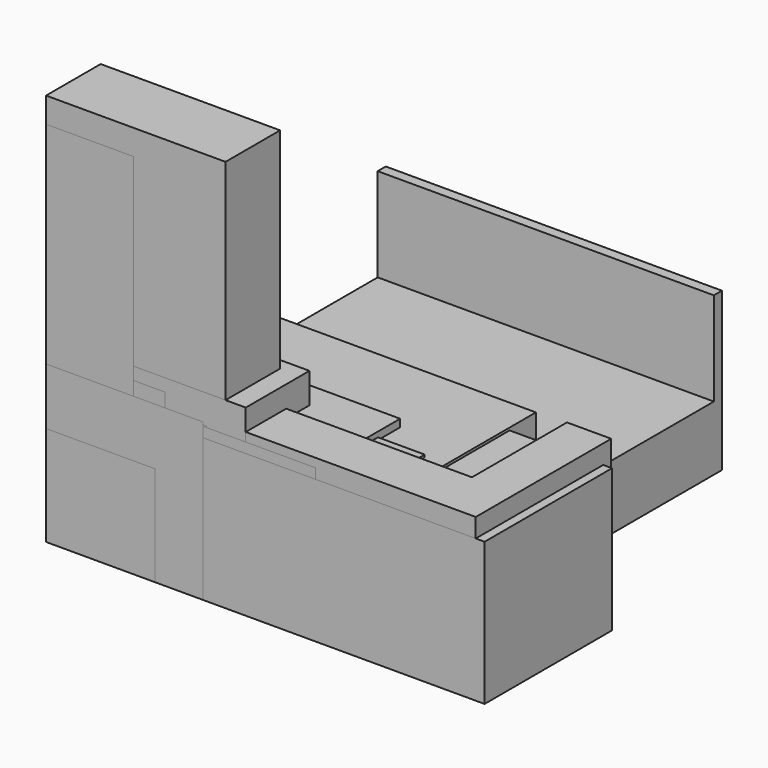
from build123d import *

# Parameters (mm, degrees)
F0_W      = 774.7
F0_H      = 495.3
F1_DEPTH  = 1073.15
F2_W      = 901.7
F2_H      = 342.9
F3_DEPTH  = 1974.85
F4_W      = 1689.1
F4_H      = 965.2
F5_DEPTH  = 730.25
F6_W      = 1587.5
F6_H      = 393.7
F7_DEPTH  = 742.95
F8_W      = 2159
F8_H      = 850.9
F9_DEPTH  = 812.8
F10_W     = 1714.5
F10_H     = 596.9
F11_DEPTH = 482.6
F12_W     = 1435.1
F12_H     = 421.64
F13_DEPTH = 495.3
F14_W     = 1003.3
F14_H     = 400.05
F15_DEPTH = 920.75
F16_W     = 596.9
F16_H     = 501.65
F17_DEPTH = 857.25
F18_W     = 438.15
F18_H     = 393.7
F19_DEPTH = 1847.85
F20_W     = 1689.1
F20_H     = 2133.6
F21_DEPTH = 323.85
F22_W     = 1689.1
F22_H     = 50.8
F23_DEPTH = 469.9
F24_W     = 806.45
F24_H     = 482.6
F25_DEPTH = 774.7
F26_W     = 400.05
F26_H     = 482.6
F27_DEPTH = 546.1
F28_W     = 463.55
F28_H     = 349.25
F29_DEPTH = 704.85
F30_W     = 1352.55
F30_H     = 533.4
F31_DEPTH = 768.35
F32_W     = 2203.45
F32_H     = 800.1
F33_DEPTH = 717.55
F34_W     = 787.4
F34_H     = 387.35
F35_DEPTH = 787.4
F36_W     = 546.1
F36_H     = 546.1
F37_DEPTH = 501.65


with BuildPart() as f1:
    # F0 (on Top) → F1 (new body)
    with BuildSketch(Plane.XY):
        with Locations((387.35, 247.65)):
            Rectangle(F0_W, F0_H)
    extrude(amount=F1_DEPTH)


with BuildPart() as f3:
    # F2 (on Top) → F3 (new body)
    with BuildSketch(Plane.XY):
        with Locations((450.85, 171.45)):
            Rectangle(F2_W, F2_H)
    extrude(amount=F3_DEPTH)


with BuildPart() as f5:
    # F4 (on Top) → F5 (new body)
    with BuildSketch(Plane.XY):
        with Locations((844.55, 482.6)):
            Rectangle(F4_W, F4_H)
    extrude(amount=F5_DEPTH)


with BuildPart() as f7:
    # F6 (on Top) → F7 (new body)
    with BuildSketch(Plane.XY):
        with Locations((793.75, 196.85)):
            Rectangle(F6_W, F6_H)
    extrude(amount=F7_DEPTH)


with BuildPart() as f9:
    # F8 (on Top) → F9 (new body)
    with BuildSketch(Plane.XY):
        with Locations((1079.5, 425.45)):
            Rectangle(F8_W, F8_H)
    extrude(amount=F9_DEPTH)

    # F10 (on face) → F11 (cut)
    with BuildSketch(Plane.XY.offset(812.8)):
        with Locations((1079.5, 552.45)):
            Rectangle(F10_W, F10_H)
    extrude(amount=-F11_DEPTH, mode=Mode.SUBTRACT)


with BuildPart() as f13:
    # F12 (on Top) → F13 (new body)
    with BuildSketch(Plane.XY):
        with Locations((717.55, 210.82)):
            Rectangle(F12_W, F12_H)
    extrude(amount=F13_DEPTH)


with BuildPart() as f15:
    # F14 (on Top) → F15 (new body)
    with BuildSketch(Plane.XY):
        with Locations((501.65, 200.025)):
            Rectangle(F14_W, F14_H)
    extrude(amount=F15_DEPTH)


with BuildPart() as f17:
    # F16 (on Top) → F17 (new body)
    with BuildSketch(Plane.XY):
        with Locations((298.45, 250.825)):
            Rectangle(F16_W, F16_H)
    extrude(amount=F17_DEPTH)


with BuildPart() as f19:
    # F18 (on Top) → F19 (new body)
    with BuildSketch(Plane.XY):
        with Locations((219.075, 196.85)):
            Rectangle(F18_W, F18_H)
    extrude(amount=F19_DEPTH)


with BuildPart() as f21:
    # F20 (on Top) → F21 (new body)
    with BuildSketch(Plane.XY):
        with Locations((844.55, 1066.8)):
            Rectangle(F20_W, F20_H)
    extrude(amount=F21_DEPTH)

    # F22 (on face) → F23 (join)
    with BuildSketch(Plane.XY.offset(323.85)):
        with Locations((844.55, 2108.2)):
            Rectangle(F22_W, F22_H)
    extrude(amount=F23_DEPTH)


with BuildPart() as f25:
    # F24 (on Top) → F25 (new body)
    with BuildSketch(Plane.XY):
        with Locations((403.225, 241.3)):
            Rectangle(F24_W, F24_H)
    extrude(amount=F25_DEPTH)


with BuildPart() as f27:
    # F26 (on Top) → F27 (new body)
    with BuildSketch(Plane.XY):
        with Locations((200.025, 241.3)):
            Rectangle(F26_W, F26_H)
    extrude(amount=F27_DEPTH)


with BuildPart() as f29:
    # F28 (on Top) → F29 (new body)
    with BuildSketch(Plane.XY):
        with Locations((231.775, 174.625)):
            Rectangle(F28_W, F28_H)
    extrude(amount=F29_DEPTH)


with BuildPart() as f31:
    # F30 (on Top) → F31 (new body)
    with BuildSketch(Plane.XY):
        with Locations((676.275, 266.7)):
            Rectangle(F30_W, F30_H)
    extrude(amount=F31_DEPTH)


with BuildPart() as f33:
    # F32 (on Top) → F33 (new body)
    with BuildSketch(Plane.XY):
        with Locations((1101.725, 400.05)):
            Rectangle(F32_W, F32_H)
    extrude(amount=F33_DEPTH)


with BuildPart() as f35:
    # F34 (on Top) → F35 (new body)
    with BuildSketch(Plane.XY):
        with Locations((393.7, 193.675)):
            Rectangle(F34_W, F34_H)
    extrude(amount=F35_DEPTH)


with BuildPart() as f37:
    # F36 (on Top) → F37 (new body)
    with BuildSketch(Plane.XY):
        with Locations((273.05, 273.05)):
            Rectangle(F36_W, F36_H)
    extrude(amount=F37_DEPTH)


solid = Compound([f1.part, f3.part, f5.part, f7.part, f9.part, f13.part, f15.part, f17.part, f19.part, f21.part, f25.part, f27.part, f29.part, f31.part, f33.part, f35.part, f37.part])
